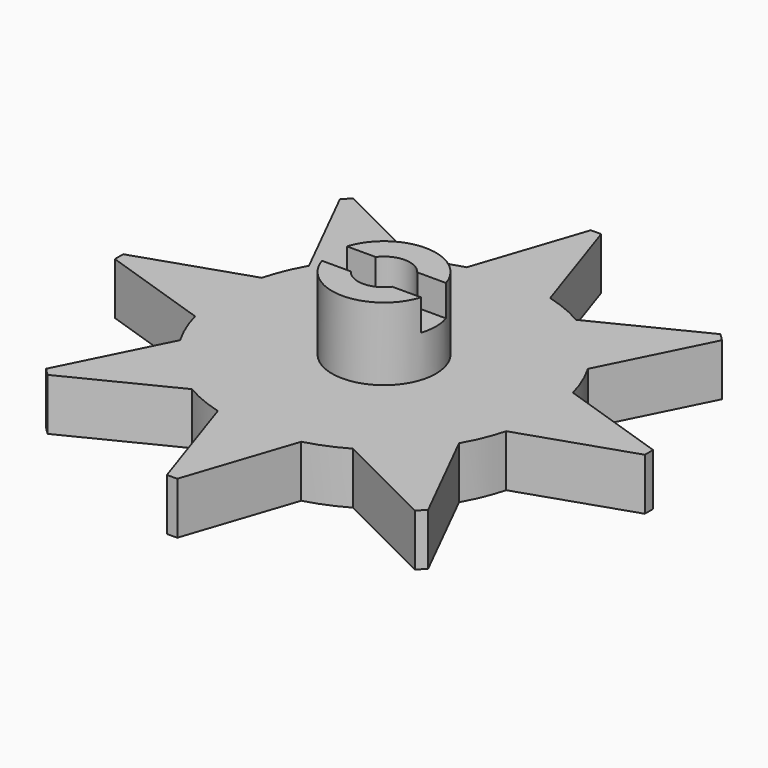
from build123d import *

# Parameters (mm, degrees)
F1_DEPTH = 5
F2_R     = 5
F3_DEPTH = 7
F5_R     = 2.5
F6_DEPTH = 12.001
F7_W     = 15.130732
F7_H     = 3
F8_DEPTH = 3


with BuildPart() as f1:
    # F0 (on Top) → F1 (new body)
    with BuildSketch(Plane.XY):
        with BuildLine():
            ThreePointArc((7.75, 13.423394), (5.931593, 14.320133), (4.011695, 14.97185))
            ThreePointArc((4.011695, 14.97185), (0, 15.5), (-4.011695, 14.97185))
            ThreePointArc((-4.011695, 14.97185), (-5.931593, 14.320133), (-7.75, 13.423394))
            ThreePointArc((-7.75, 13.423394), (-10.960155, 10.960155), (-13.423394, 7.75))
            ThreePointArc((-13.423394, 7.75), (-14.320133, 5.931593), (-14.97185, 4.011695))
            ThreePointArc((-14.97185, 4.011695), (-15.5, 0), (-14.97185, -4.011695))
            ThreePointArc((-14.97185, -4.011695), (-14.320133, -5.931593), (-13.423394, -7.75))
            ThreePointArc((-13.423394, -7.75), (-10.960155, -10.960155), (-7.75, -13.423394))
            ThreePointArc((-7.75, -13.423394), (-5.931593, -14.320133), (-4.011695, -14.97185))
            ThreePointArc((-4.011695, -14.97185), (0, -15.5), (4.011695, -14.97185))
            ThreePointArc((4.011695, -14.97185), (5.931593, -14.320133), (7.75, -13.423394))
            ThreePointArc((7.75, -13.423394), (10.960155, -10.960155), (13.423394, -7.75))
            ThreePointArc((13.423394, -7.75), (14.320133, -5.931593), (14.97185, -4.011695))
            ThreePointArc((14.97185, -4.011695), (15.367395, -2.023156), (15.5, 0))
            ThreePointArc((15.5, 0), (15.367395, 2.023156), (14.97185, 4.011695))
            ThreePointArc((14.97185, 4.011695), (14.320133, 5.931593), (13.423394, 7.75))
            ThreePointArc((13.423394, 7.75), (10.960155, 10.960155), (7.75, 13.423394))
        make_face()
        with BuildLine():
            ThreePointArc((-4.011695, 14.97185), (0, 15.5), (4.011695, 14.97185))
            Line((4.011695, 14.97185), (0.499976, 25.495098))
            ThreePointArc((0.499976, 25.495098), (0, 25.5), (-0.499976, 25.495098))
            Line((-0.499976, 25.495098), (-4.011695, 14.97185))
        make_face()
        with BuildLine():
            Line((17.67422, 18.381293), (7.75, 13.423394))
            ThreePointArc((7.75, 13.423394), (10.960155, 10.960155), (13.423394, 7.75))
            Line((13.423394, 7.75), (18.381293, 17.67422))
            ThreePointArc((18.381293, 17.67422), (18.031223, 18.031223), (17.67422, 18.381293))
        make_face()
        with BuildLine():
            ThreePointArc((-13.423394, 7.75), (-10.960155, 10.960155), (-7.75, 13.423394))
            Line((-7.75, 13.423394), (-17.67422, 18.381293))
            ThreePointArc((-17.67422, 18.381293), (-18.031223, 18.031223), (-18.381293, 17.67422))
            Line((-18.381293, 17.67422), (-13.423394, 7.75))
        make_face()
        with BuildLine():
            Line((25.495098, 0.499976), (14.97185, 4.011695))
            ThreePointArc((14.97185, 4.011695), (15.367395, 2.023156), (15.5, 0))
            ThreePointArc((15.5, 0), (15.367395, -2.023156), (14.97185, -4.011695))
            Line((14.97185, -4.011695), (25.495098, -0.499976))
            ThreePointArc((25.495098, -0.499976), (25.5, 0), (25.495098, 0.499976))
        make_face()
        with BuildLine():
            ThreePointArc((-14.97185, -4.011695), (-15.5, 0), (-14.97185, 4.011695))
            Line((-14.97185, 4.011695), (-25.495098, 0.499976))
            ThreePointArc((-25.495098, 0.499976), (-25.5, 0), (-25.495098, -0.499976))
            Line((-25.495098, -0.499976), (-14.97185, -4.011695))
        make_face()
        with BuildLine():
            ThreePointArc((-7.75, -13.423394), (-10.960155, -10.960155), (-13.423394, -7.75))
            Line((-13.423394, -7.75), (-18.381293, -17.67422))
            ThreePointArc((-18.381293, -17.67422), (-18.031223, -18.031223), (-17.67422, -18.381293))
            Line((-17.67422, -18.381293), (-7.75, -13.423394))
        make_face()
        with BuildLine():
            Line((18.381293, -17.67422), (13.423394, -7.75))
            ThreePointArc((13.423394, -7.75), (10.960155, -10.960155), (7.75, -13.423394))
            Line((7.75, -13.423394), (17.67422, -18.381293))
            ThreePointArc((17.67422, -18.381293), (18.031223, -18.031223), (18.381293, -17.67422))
        make_face()
        with BuildLine():
            ThreePointArc((4.011695, -14.97185), (0, -15.5), (-4.011695, -14.97185))
            Line((-4.011695, -14.97185), (-0.499976, -25.495098))
            ThreePointArc((-0.499976, -25.495098), (0, -25.5), (0.499976, -25.495098))
            Line((0.499976, -25.495098), (4.011695, -14.97185))
        make_face()
    extrude(amount=F1_DEPTH)

    # F2 (on face) → F3 (join)
    with BuildSketch(Plane.XY.offset(5)):
        Circle(F2_R)
    extrude(amount=F3_DEPTH)

    # F5 (on face) → F6 (cut, through all)
    with BuildSketch(Plane.XY.offset(12)):
        Circle(F5_R)
    extrude(amount=-F6_DEPTH, mode=Mode.SUBTRACT)

    # F7 (on face) → F8 (cut)
    with BuildSketch(Plane.XY.offset(12)):
        with Locations((0.217972, 0)):
            Rectangle(F7_W, F7_H)
    extrude(amount=-F8_DEPTH, mode=Mode.SUBTRACT)


solid = f1.part
